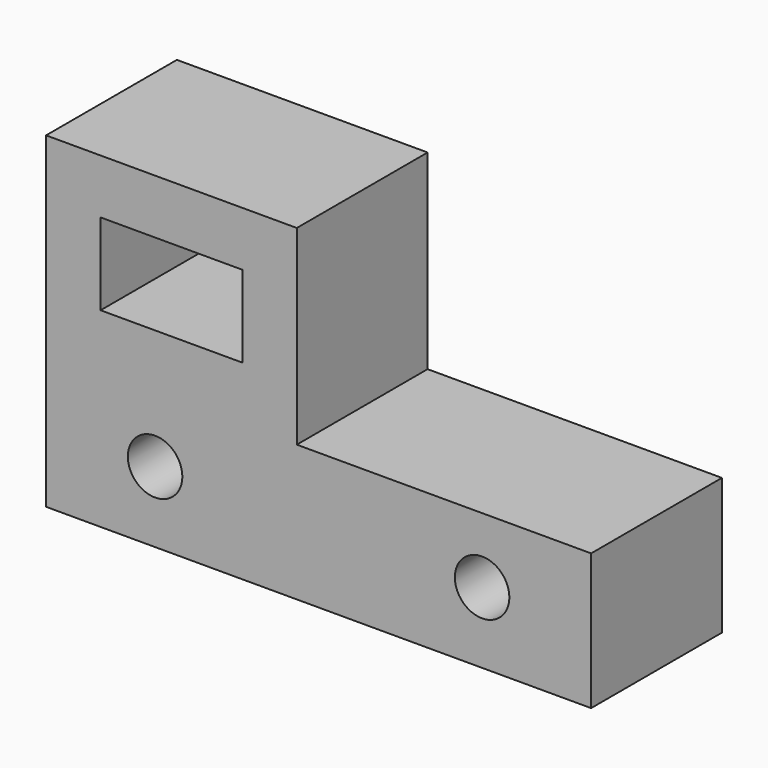
from build123d import *

# Parameters (mm, degrees)
F1_DEPTH = 76.2
F2_W     = 66.04
F2_H     = 38.1
F3_DEPTH = 787.4
F4_R     = 12.7
F5_DEPTH = 78.74


with BuildPart() as f1:
    # F0 (on Front) → F1 (new body)
    with BuildSketch(Plane.XZ):
        Polygon((116.84, 152.4), (0, 152.4), (0, 0), (254, 0), (254, 63.5), (116.84, 63.5), align=None)
    extrude(amount=F1_DEPTH)

    # F2 (on face) → F3 (cut)
    with BuildSketch(Plane.XZ.offset(76.2)):
        with Locations((58.42, 107.95)):
            Rectangle(F2_W, F2_H)
    extrude(amount=-F3_DEPTH, mode=Mode.SUBTRACT)

    # F4 (on face) → F5 (cut)
    with BuildSketch(Plane.XZ.offset(76.2)):
        with Locations((50.8, 33.02)):
            Circle(F4_R)
        with Locations((203.2, 33.02)):
            Circle(F4_R)
    extrude(amount=-F5_DEPTH, mode=Mode.SUBTRACT)


solid = f1.part
